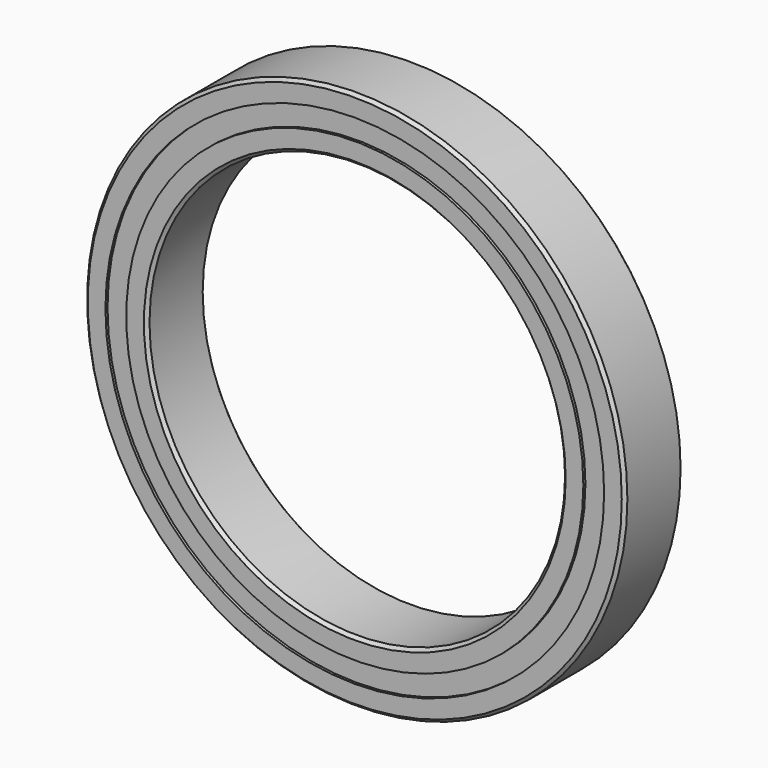
from build123d import *

# Parameters (mm, degrees)
F0_R     = 26
F0_R_2   = 24
F1_DEPTH = 3.5
F0_R_3   = 22
F0_R_4   = 20
F2_DEPTH = 3.25
F3_SIZE  = 0.3


with BuildPart() as f1:
    # F0 (on Front) → F1 (new body, symmetric)
    with BuildSketch(Plane.XZ):
        Circle(F0_R)
        Circle(F0_R_2, mode=Mode.SUBTRACT)
    extrude(amount=F1_DEPTH, both=True)



with BuildPart() as f1b:
    # F0 (on Front) → F1, piece 2 (new body, symmetric)
    with BuildSketch(Plane.XZ):
        Circle(F0_R_3)
        Circle(F0_R_4, mode=Mode.SUBTRACT)
    extrude(amount=F1_DEPTH, both=True)


with BuildPart() as f1_1:
    add(f1.part)

    add(f1b.part)  # F2 merges F1b
    # F0 (on Front) → F2 (join, symmetric)
    with BuildSketch(Plane.XZ):
        Circle(F0_R_2)
        Circle(F0_R_3, mode=Mode.SUBTRACT)
    extrude(amount=F2_DEPTH, both=True)

    # F3
    f3_edges = [f1_1.edges().sort_by_distance(p)[0] for p in [
        (-26, -3.5, 0),
        (-26, 3.5, 0),
        (-20, -3.5, 0),
        (-20, 3.5, 0),
    ]]
    chamfer(f3_edges, length=F3_SIZE)


solid = f1_1.part
